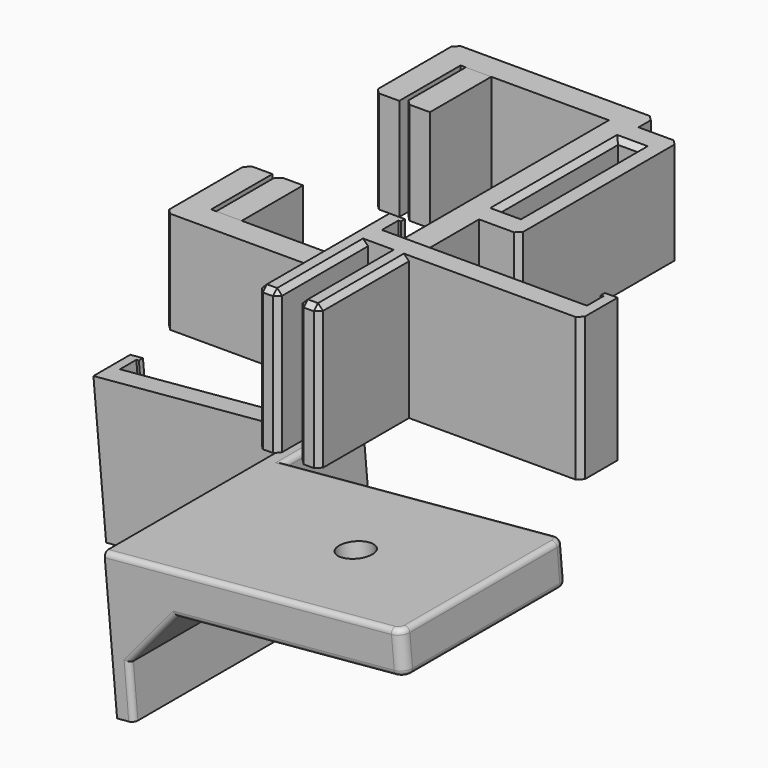
from build123d import *

# Parameters (mm, degrees)
PAD_DEPTH               = 28
SKETCH002_W             = 12
SKETCH002_H             = 28
PAD001_DEPTH            = 22
SKETCH003_W             = 4
SKETCH003_H             = 28
POCKET_DEPTH            = 22
CHAMFER006_SIZE         = 1
SKETCH004_W             = 4
SKETCH004_H             = 29
PAD002_DEPTH            = 20
CHAMFER_SIZE            = 1
CHAMFER007_SIZE         = 1
SKETCH005_W             = 4
SKETCH005_H             = 29
PAD003_DEPTH            = 20
CHAMFER008_SIZE         = 1
CHAMFER009_SIZE         = 1
PAD004_DEPTH            = 28
SKETCH007_W             = 3.291688
SKETCH007_H             = 28
PAD005_DEPTH            = 50
SKETCH008_W             = 40
SKETCH008_H             = 8
PAD006_DEPTH            = 55
SKETCH009_R             = 3.25
POCKET001_DEPTH         = 28.001
CHAMFER010_SIZE         = 5
CHAMFER011_SIZE         = 10
FILLET_R                = 2
FILLET001_R             = 1
FILLET002_R             = 1
FILLET003_R             = 1
BODY003_PLACEMENT_ANGLE = 174.9


with BuildPart() as mount:
    # Sketch → Pad (new body)
    with BuildSketch(Plane.XY):
        Polygon((-3.291688, 9), (0.708312, 9), (0.708312, 8), (0.208312, 8), (0.208312, 4), (40.308312, 4), (40.308312, 8), (39.808312, 8), (39.808312, 9), (42.308312, 9), (42.308312, 0), (-3.291688, 0), (-3.291688, 4), align=None)
    extrude(amount=PAD_DEPTH)

    # Sketch002 (on Face11 of Pad) → Pad001 (join)
    with BuildSketch(Plane.XZ):
        with Locations((2.708312, 14)):
            Rectangle(SKETCH002_W, SKETCH002_H)
    extrude(amount=PAD001_DEPTH)

    # Sketch003 (on Face13 of Pad001) → Pocket (cut)
    with BuildSketch(Plane.XZ.offset(22)):
        with Locations((2.708312, 14)):
            Rectangle(SKETCH003_W, SKETCH003_H)
    extrude(amount=-POCKET_DEPTH, mode=Mode.SUBTRACT)

    # Chamfer006
    chamfer006_edges = [mount.edges().sort_by_distance(p)[0] for p in [
        (-3.291688, 9, 14),
        (-3.291688, -6.5, 28),
        (-3.291688, -22, 14),
        (0.708312, -22, 14),
        (0.708312, -11, 28),
        (-1.291688, -22, 28),
        (6.708312, -22, 28),
        (4.708312, -11, 28),
        (8.708312, -11, 28),
        (8.708312, -22, 14),
        (4.708312, -22, 14),
        (42.308312, 0, 14),
    ]]
    chamfer(chamfer006_edges, length=CHAMFER006_SIZE)


with BuildPart() as attachment:
    # Sketch004 → Pad002 (new body)
    with BuildSketch(Plane.XY):
        Polygon((-33, 71), (0, 71), (0, 67), (7.85, 67), (7.85, 28), (0, 28), (0, 0), (-33, 0), (-33, 20), (-28, 20), (-28, 5), (-5, 5), (-5, 66), (-28, 66), (-28, 51), (-33, 51), align=None)
        with Locations((2, 47.5)):
            Rectangle(SKETCH004_W, SKETCH004_H, mode=Mode.SUBTRACT)
    extrude(amount=PAD002_DEPTH)

    # Chamfer
    chamfer_edges = [attachment.edges().sort_by_distance(p)[0] for p in [
        (0, 47.5, 0),
        (4, 47.5, 0),
        (2, 33, 0),
        (2, 62, 0),
        (2, 33, 20),
        (4, 47.5, 20),
        (0, 47.5, 20),
        (2, 62, 20),
    ]]
    chamfer(chamfer_edges, length=CHAMFER_SIZE)

    # Chamfer007
    chamfer007_edges = [attachment.edges().sort_by_distance(p)[0] for p in [
        (0, 71, 10),
        (7.85, 67, 10),
        (7.85, 28, 10),
        (-33, 71, 10),
        (-33, 51, 10),
        (-33, 20, 10),
        (-33, 0, 10),
        (0, 0, 10),
    ]]
    chamfer(chamfer007_edges, length=CHAMFER007_SIZE)


with BuildPart() as obj1:
    # Sketch005 → Pad003 (new body)
    with BuildSketch(Plane.XY):
        Polygon((-39, 71), (0, 71), (0, 67), (7.85, 67), (7.85, 28), (0, 28), (0, 0), (-39, 0), (-39, 20), (-34, 20), (-34, 5), (-5, 5), (-5, 66), (-34, 66), (-34, 51), (-39, 51), align=None)
        with Locations((2, 47.5)):
            Rectangle(SKETCH005_W, SKETCH005_H, mode=Mode.SUBTRACT)
    extrude(amount=PAD003_DEPTH)

    # Chamfer008
    chamfer008_edges = [obj1.edges().sort_by_distance(p)[0] for p in [
        (0, 47.5, 0),
        (4, 47.5, 0),
        (2, 33, 0),
        (2, 62, 0),
        (2, 33, 20),
        (4, 47.5, 20),
        (0, 47.5, 20),
        (2, 62, 20),
    ]]
    chamfer(chamfer008_edges, length=CHAMFER008_SIZE)

    # Chamfer009
    chamfer009_edges = [obj1.edges().sort_by_distance(p)[0] for p in [
        (0, 71, 10),
        (7.85, 67, 10),
        (7.85, 28, 10),
        (-39, 71, 10),
        (-39, 51, 10),
        (-39, 20, 10),
        (-39, 0, 10),
        (0, 0, 10),
    ]]
    chamfer(chamfer009_edges, length=CHAMFER009_SIZE)


with BuildPart() as mount001:
    # Sketch006 → Pad004 (new body)
    with BuildSketch(Plane.XY):
        Polygon((-3.291688, 9), (0.708312, 9), (0.708312, 8), (0.208312, 8), (0.208312, 4), (40.308312, 4), (40.308312, 8), (39.808312, 8), (39.808312, 9), (42.308312, 9), (42.308312, 0), (-3.291688, 0), (-3.291688, 4), align=None)
    extrude(amount=PAD004_DEPTH)

    # Sketch007 (on Face11 of Pad004) → Pad005 (join)
    with BuildSketch(Plane.XZ):
        with Locations((-1.645844, 14)):
            Rectangle(SKETCH007_W, SKETCH007_H)
    extrude(amount=PAD005_DEPTH)

    # Sketch008 (on Face14 of Pad005) → Pad006 (join)
    with BuildSketch(Plane(origin=(-3.291688, 0, 0), x_dir=(0, -1, 0), z_dir=(-1, 0, 0))):
        with Locations((30, 4)):
            Rectangle(SKETCH008_W, SKETCH008_H)
    extrude(amount=PAD006_DEPTH)

    # Sketch009 (on Face18 of Pad006) → Pocket001 (cut, through all)
    with BuildSketch(Plane(origin=(0, 0, 0), x_dir=(1, 0, 0), z_dir=(0, 0, -1))):
        with Locations((-33.291688, 30)):
            Circle(SKETCH009_R)
    extrude(amount=-POCKET001_DEPTH, mode=Mode.SUBTRACT)

    # Chamfer010
    chamfer010_edges = [mount001.edges().sort_by_distance(p)[0] for p in [
        (0, 0, 14),
    ]]
    chamfer(chamfer010_edges, length=CHAMFER010_SIZE)

    # Chamfer011
    chamfer011_edges = [mount001.edges().sort_by_distance(p)[0] for p in [
        (-3.291688, -30, 8),
    ]]
    chamfer(chamfer011_edges, length=CHAMFER011_SIZE)

    # Fillet
    fillet_edges = [mount001.edges().sort_by_distance(p)[0] for p in [
        (-58.291688, -50, 4),
        (-58.291688, -10, 4),
    ]]
    fillet(fillet_edges, radius=FILLET_R)

    # Fillet001
    fillet001_edges = [mount001.edges().sort_by_distance(p)[0] for p in [
        (-28.145844, -50, 0),
        (-58.291688, -30, 0),
        (-29.791688, -10, 0),
        (-3.291688, -0.5, 0),
    ]]
    fillet(fillet001_edges, radius=FILLET001_R)

    # Fillet002
    fillet002_edges = [mount001.edges().sort_by_distance(p)[0] for p in [
        (-34.791688, -50, 8),
        (-8.291688, -50, 13),
        (-3.291688, -50, 23),
    ]]
    fillet(fillet002_edges, radius=FILLET002_R)

    # Fillet003
    fillet003_edges = [mount001.edges().sort_by_distance(p)[0] for p in [
        (-8.291688, -10, 13),
    ]]
    fillet(fillet003_edges, radius=FILLET003_R)


with BuildPart() as mount001_1:
    # Body003 placement: moved
    add(mount001.part.moved(Location((0, -13.599, 0))).rotate(Axis((0, -13.599, 0), (0, 1, 0)), BODY003_PLACEMENT_ANGLE))


solid = Compound([mount.part, attachment.part, obj1.part, mount001_1.part])
